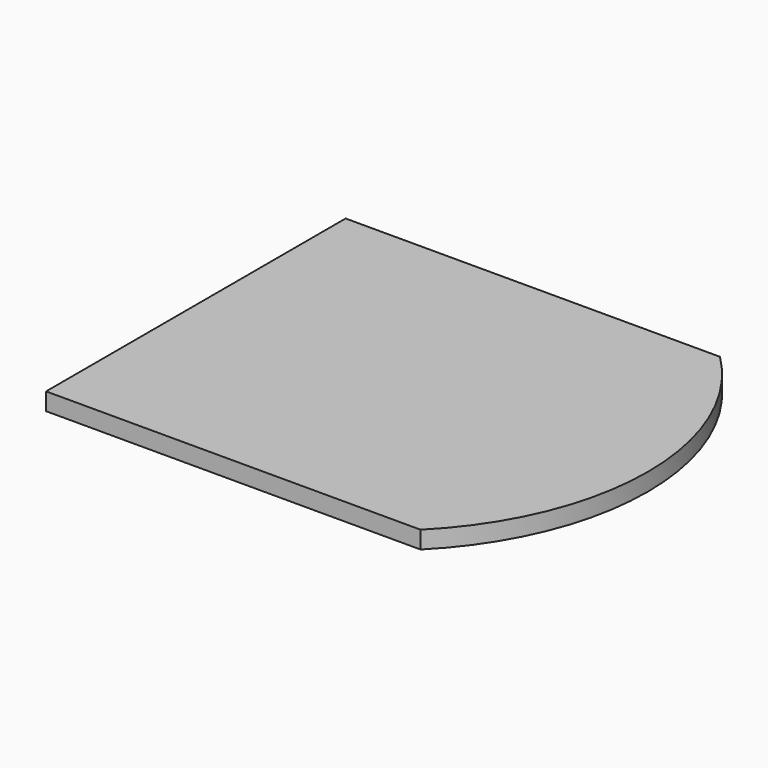
from build123d import *

# Parameters (mm, degrees)
F0_W     = 7620
F0_H     = 7620
F1_DEPTH = 355.6


with BuildPart() as f1:
    # F0 (on Top) → F1 (new body)
    with BuildSketch(Plane.XY):
        Rectangle(F0_W, F0_H)
        with BuildLine():
            ThreePointArc((3810, -3810), (5388.153673, 0), (3810, 3810))
            Line((3810, 3810), (3810, -3810))
        make_face()
    extrude(amount=F1_DEPTH)


solid = f1.part
